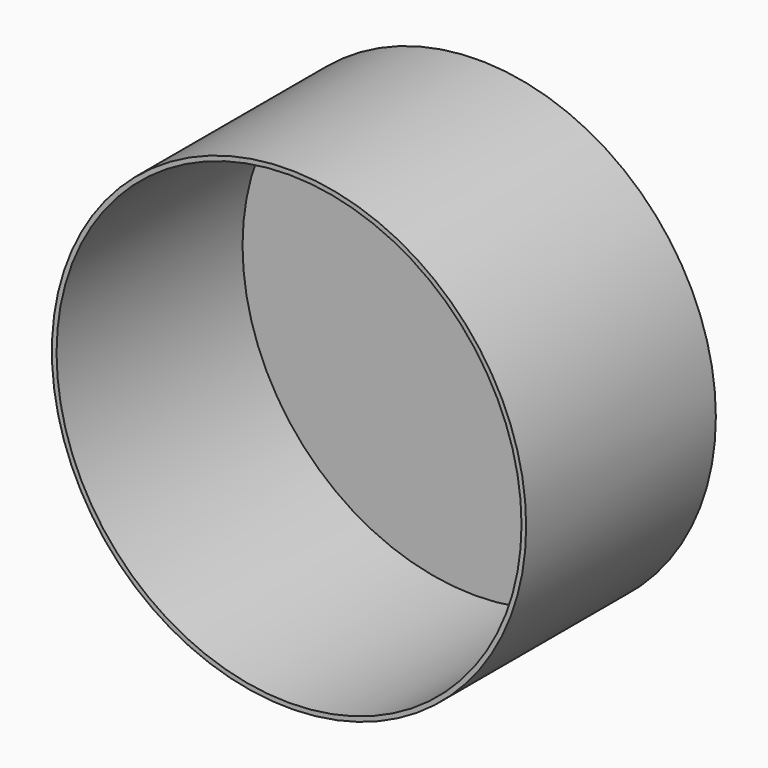
from build123d import *

# Parameters (mm, degrees)
F0_R     = 75
F1_DEPTH = 75
F2_T     = 1.5


with BuildPart() as f1:
    # F0 (on Front) → F1 (new body)
    with BuildSketch(Plane.XZ):
        Circle(F0_R)
    extrude(amount=F1_DEPTH)

    # F2
    f2_openings = [f1.faces().sort_by_distance(p)[0] for p in [
        (0, -75, 0),
    ]]
    offset(amount=F2_T, openings=f2_openings, kind=Kind.INTERSECTION)


solid = f1.part
